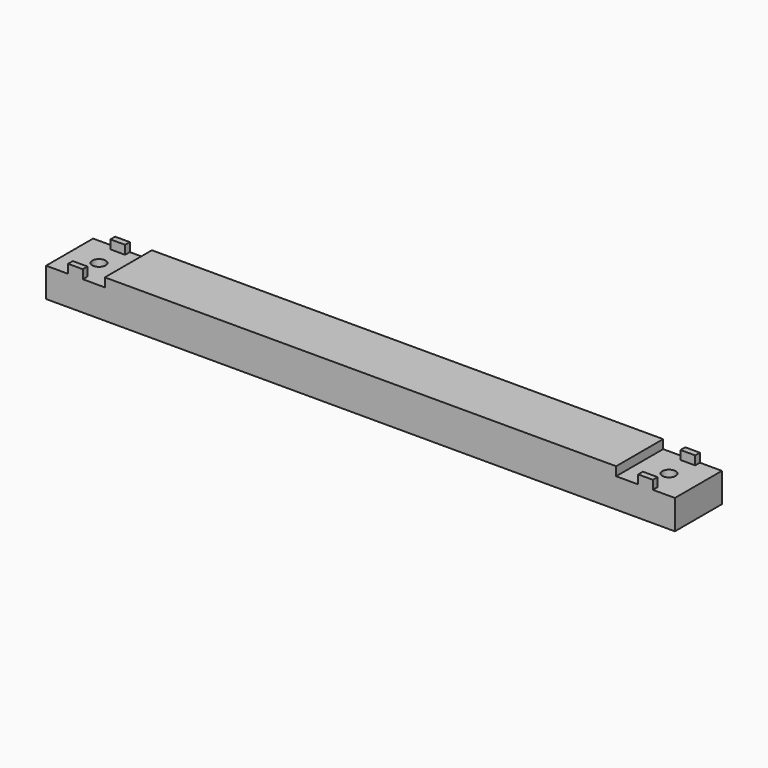
from build123d import *

# Parameters (mm, degrees)
F0_W     = 174
F0_H     = 20
F1_DEPTH = 13
F0_R     = 2.25
F2_DEPTH = 10
F0_W_2   = 5
F0_H_2   = 2
F3_DEPTH = 13


with BuildPart() as f1:
    # F0 (on Top) → F1 (new body)
    with BuildSketch(Plane.XY):
        with Locations((61.142166, 10)):
            Rectangle(F0_W, F0_H)
    extrude(amount=F1_DEPTH)

    # F0 (on Top) → F2 (join)
    with BuildSketch(Plane.XY):
        Polygon((-45.857834, 20), (-45.857834, 0), (-38.357834, 0), (-38.357834, 2), (-33.357834, 2), (-33.357834, 0), (-25.857834, 0), (-25.857834, 20), (-33.357834, 20), (-33.357834, 18), (-38.357834, 18), (-38.357834, 20), align=None)
        with Locations((-35.857834, 10)):
            Circle(F0_R, mode=Mode.SUBTRACT)
        Polygon((148.142166, 20), (148.142166, 0), (155.642166, 0), (155.642166, 2), (160.642166, 2), (160.642166, 0), (168.142166, 0), (168.142166, 20), (160.642166, 20), (160.642166, 18), (155.642166, 18), (155.642166, 20), align=None)
        with Locations((158.142166, 10)):
            Circle(F0_R, mode=Mode.SUBTRACT)
    extrude(amount=F2_DEPTH)

    # F0 (on Top) → F3 (join)
    with BuildSketch(Plane.XY):
        with Locations((-35.857834, 19)):
            Rectangle(F0_W_2, F0_H_2)
        with Locations((-35.857834, 1)):
            Rectangle(F0_W_2, F0_H_2)
        with Locations((158.142166, 19)):
            Rectangle(F0_W_2, F0_H_2)
        with Locations((158.142166, 1)):
            Rectangle(F0_W_2, F0_H_2)
    extrude(amount=F3_DEPTH)


solid = f1.part
